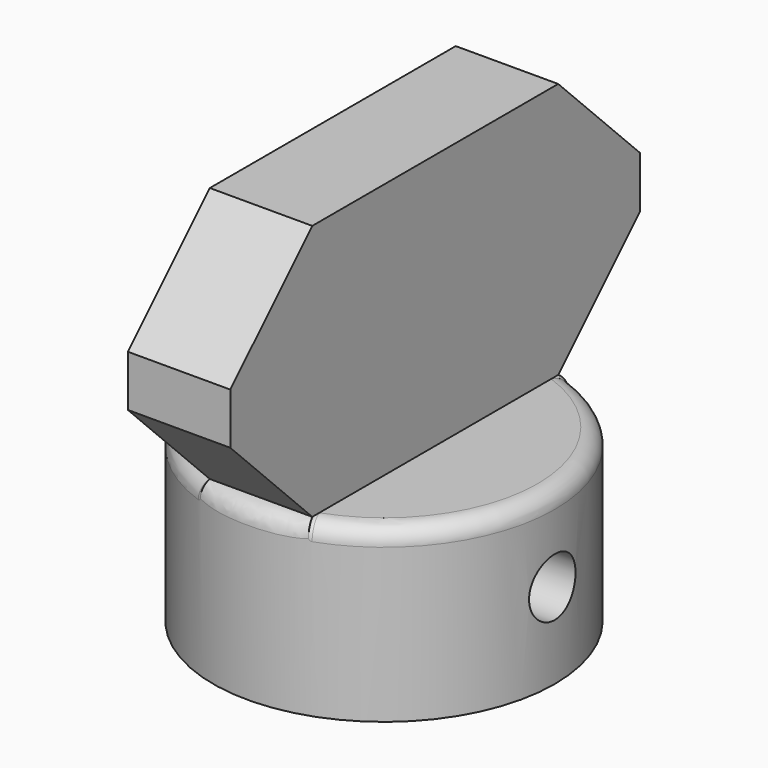
from build123d import *

# Parameters (mm, degrees)
PAD007_DEPTH             = 2.7
CLONE087_ROLL_ANGLE      = 180
CYLINDER1014_R           = 2.7
CYLINDER1014_DEPTH       = 100
CYLINDER1018_R           = 1.7
CYLINDER1018_DEPTH       = 10
CLONE086_PITCH_ANGLE     = -90
CLONE086_PLACEMENT_ANGLE = -180
BOX044_W                 = 6
BOX044_H                 = 30
BOX044_DEPTH             = 15
CHAMFER017_SIZE          = 6
CYLINDER1039_R           = 10
CYLINDER1039_DEPTH       = 10
FILLET_R                 = 1


with BuildPart() as clone_of_m3nuthousingmaster012:
    # Sketch008 → Pad007 (new body)
    with BuildSketch(Plane(origin=(65, 30, 1.5), x_dir=(0, 0, 1), z_dir=(-1, 0, 0))):
        Polygon((0, 0), (1.674316, 2.9), (21.674316, 2.9), (21.674316, -2.9), (1.674316, -2.9), align=None)
    extrude(amount=PAD007_DEPTH)


with BuildPart() as clone_of_m3nuthousingmaster012_1:
    # Clone087 roll: moved
    add(clone_of_m3nuthousingmaster012.part.rotate(Axis((0, 0, 0), (1, 0, 0)), CLONE087_ROLL_ANGLE))


with BuildPart() as clone_of_m3nuthousingmaster012_2:
    # Clone087 placement: moved
    add(clone_of_m3nuthousingmaster012_1.part.moved(Location((-58.3, 30, 10))))


with BuildPart() as obj1:
    # Cylinder1014 → Cylinder1014 (new body)
    with BuildSketch(Plane.XY):
        Circle(CYLINDER1014_R)
    extrude(amount=CYLINDER1014_DEPTH)


with BuildPart() as obj1_1:
    # Clone085 placement: moved
    add(obj1.part.moved(Location((0, 0, -90))))


with BuildPart() as fusion069:
    # Cylinder1018 → Cylinder1018 (new body)
    with BuildSketch(Plane.XY):
        Circle(CYLINDER1018_R)
    extrude(amount=CYLINDER1018_DEPTH)


with BuildPart() as fusion069_1:
    # Clone086 pitch: moved
    add(fusion069.part.rotate(Axis((0, 0, 0), (0, 1, 0)), CLONE086_PITCH_ANGLE))


with BuildPart() as fusion069_2:
    # Clone086 placement: moved
    add(fusion069_1.part.moved(Location((1, 0, 5))).rotate(Axis((1, 0, 5), (0, 0, 1)), CLONE086_PLACEMENT_ANGLE))

    # Fusion069: union Clone of M3NutHousingMaster012, obj1
    add(clone_of_m3nuthousingmaster012_2.part)
    add(obj1_1.part)


with BuildPart() as chamfer017:
    # Box044 → Box044 (new body)
    with BuildSketch(Plane(origin=(-3, -15, 10), x_dir=(1, 0, 0), z_dir=(0, 0, 1))):
        with Locations((3, 15)):
            Rectangle(BOX044_W, BOX044_H)
    extrude(amount=BOX044_DEPTH)

    # Chamfer017
    chamfer017_edges = [chamfer017.edges().sort_by_distance(p)[0] for p in [
        (0, -15, 10),
        (0, -15, 25),
        (0, 15, 10),
        (0, 15, 25),
    ]]
    chamfer(chamfer017_edges, length=CHAMFER017_SIZE)


with BuildPart() as clone_of_adjustwheel:
    # Cylinder1039 → Cylinder1039 (new body)
    with BuildSketch(Plane.XY):
        Circle(CYLINDER1039_R)
    extrude(amount=CYLINDER1039_DEPTH)

    # Fusion070: union Chamfer017
    add(chamfer017.part)

    # Fillet
    fillet_edges = [clone_of_adjustwheel.edges().sort_by_distance(p)[0] for p in [
        (-10, 0, 10),
    ]]
    fillet(fillet_edges, radius=FILLET_R)

    # Cut052: cut Fusion069
    add(fusion069_2.part, mode=Mode.SUBTRACT)


with BuildPart() as clone_of_adjustwheel_1:
    # Clone095 placement: moved
    add(clone_of_adjustwheel.part.moved(Location((39.8, 2.5, 104))))


solid = clone_of_adjustwheel_1.part
